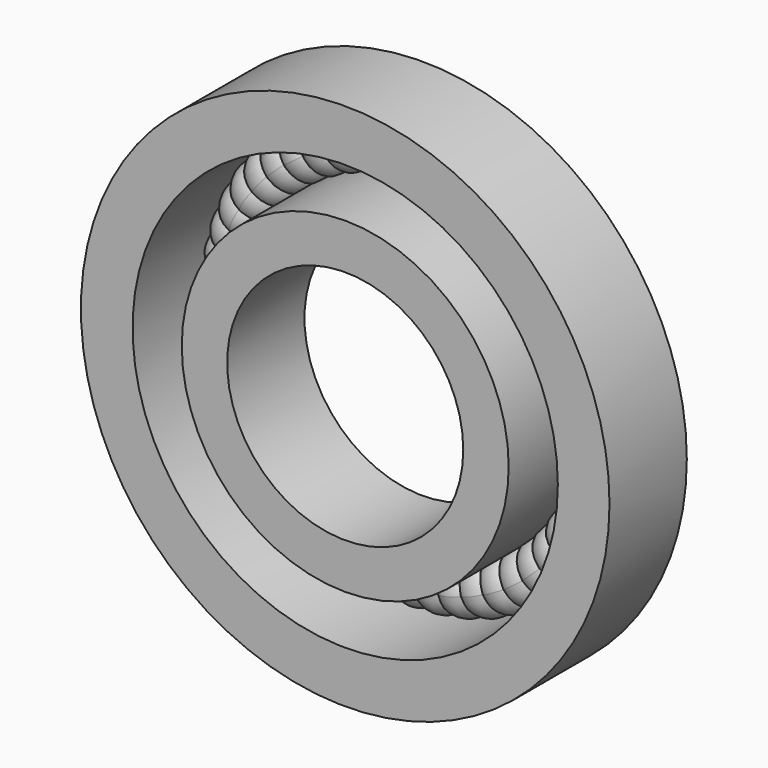
from build123d import *

# Parameters (mm, degrees)
F0_R     = 22.42843
F0_R_2   = 18.044227
F0_R_3   = 13.872573
F0_R_4   = 10.017031
F1_DEPTH = 8.2
F4_COUNT = 50


with BuildPart() as f1:
    # F0 (on Front) → F1 (new body)
    with BuildSketch(Plane.XZ):
        Circle(F0_R)
        Circle(F0_R_2, mode=Mode.SUBTRACT)
        Circle(F0_R_3)
        Circle(F0_R_4, mode=Mode.SUBTRACT)
    extrude(amount=F1_DEPTH)


with BuildPart() as f3:
    # F2 (on Front) → F3 (revolve)
    with BuildSketch(Plane.XZ):
        with BuildLine():
            ThreePointArc((2.289144, 15.860787), (1.618669, 17.479456), (0, 18.14993))
            Line((0, 18.14993), (0, 13.571643))
            ThreePointArc((0, 13.571643), (1.618669, 14.242118), (2.289144, 15.860787))
        make_face()
    revolve(axis=Axis((0, 0, 4.922349), (0, 0, -1)))


with BuildPart() as f4_1:
    # F4: instance of F3
    add(f3.part.rotate(Axis((0, 0, 0), (0, -1, 0)), 1 * 360 / F4_COUNT))


with BuildPart() as f4_2:
    # F4: instance of F3
    add(f3.part.rotate(Axis((0, 0, 0), (0, -1, 0)), 2 * 360 / F4_COUNT))


with BuildPart() as f4_3:
    # F4: instance of F3
    add(f3.part.rotate(Axis((0, 0, 0), (0, -1, 0)), 3 * 360 / F4_COUNT))


with BuildPart() as f4_4:
    # F4: instance of F3
    add(f3.part.rotate(Axis((0, 0, 0), (0, -1, 0)), 4 * 360 / F4_COUNT))


with BuildPart() as f4_5:
    # F4: instance of F3
    add(f3.part.rotate(Axis((0, 0, 0), (0, -1, 0)), 5 * 360 / F4_COUNT))


with BuildPart() as f4_6:
    # F4: instance of F3
    add(f3.part.rotate(Axis((0, 0, 0), (0, -1, 0)), 6 * 360 / F4_COUNT))


with BuildPart() as f4_7:
    # F4: instance of F3
    add(f3.part.rotate(Axis((0, 0, 0), (0, -1, 0)), 7 * 360 / F4_COUNT))


with BuildPart() as f4_8:
    # F4: instance of F3
    add(f3.part.rotate(Axis((0, 0, 0), (0, -1, 0)), 8 * 360 / F4_COUNT))


with BuildPart() as f4_9:
    # F4: instance of F3
    add(f3.part.rotate(Axis((0, 0, 0), (0, -1, 0)), 9 * 360 / F4_COUNT))


with BuildPart() as f4_10:
    # F4: instance of F3
    add(f3.part.rotate(Axis((0, 0, 0), (0, -1, 0)), 10 * 360 / F4_COUNT))


with BuildPart() as f4_11:
    # F4: instance of F3
    add(f3.part.rotate(Axis((0, 0, 0), (0, -1, 0)), 11 * 360 / F4_COUNT))


with BuildPart() as f4_12:
    # F4: instance of F3
    add(f3.part.rotate(Axis((0, 0, 0), (0, -1, 0)), 12 * 360 / F4_COUNT))


with BuildPart() as f4_13:
    # F4: instance of F3
    add(f3.part.rotate(Axis((0, 0, 0), (0, -1, 0)), 13 * 360 / F4_COUNT))


with BuildPart() as f4_14:
    # F4: instance of F3
    add(f3.part.rotate(Axis((0, 0, 0), (0, -1, 0)), 14 * 360 / F4_COUNT))


with BuildPart() as f4_15:
    # F4: instance of F3
    add(f3.part.rotate(Axis((0, 0, 0), (0, -1, 0)), 15 * 360 / F4_COUNT))


with BuildPart() as f4_16:
    # F4: instance of F3
    add(f3.part.rotate(Axis((0, 0, 0), (0, -1, 0)), 16 * 360 / F4_COUNT))


with BuildPart() as f4_17:
    # F4: instance of F3
    add(f3.part.rotate(Axis((0, 0, 0), (0, -1, 0)), 17 * 360 / F4_COUNT))


with BuildPart() as f4_18:
    # F4: instance of F3
    add(f3.part.rotate(Axis((0, 0, 0), (0, -1, 0)), 18 * 360 / F4_COUNT))


with BuildPart() as f4_19:
    # F4: instance of F3
    add(f3.part.rotate(Axis((0, 0, 0), (0, -1, 0)), 19 * 360 / F4_COUNT))


with BuildPart() as f4_20:
    # F4: instance of F3
    add(f3.part.rotate(Axis((0, 0, 0), (0, -1, 0)), 20 * 360 / F4_COUNT))


with BuildPart() as f4_21:
    # F4: instance of F3
    add(f3.part.rotate(Axis((0, 0, 0), (0, -1, 0)), 21 * 360 / F4_COUNT))


with BuildPart() as f4_22:
    # F4: instance of F3
    add(f3.part.rotate(Axis((0, 0, 0), (0, -1, 0)), 22 * 360 / F4_COUNT))


with BuildPart() as f4_23:
    # F4: instance of F3
    add(f3.part.rotate(Axis((0, 0, 0), (0, -1, 0)), 23 * 360 / F4_COUNT))


with BuildPart() as f4_24:
    # F4: instance of F3
    add(f3.part.rotate(Axis((0, 0, 0), (0, -1, 0)), 24 * 360 / F4_COUNT))


with BuildPart() as f4_25:
    # F4: instance of F3
    add(f3.part.rotate(Axis((0, 0, 0), (0, -1, 0)), 25 * 360 / F4_COUNT))


with BuildPart() as f4_26:
    # F4: instance of F3
    add(f3.part.rotate(Axis((0, 0, 0), (0, -1, 0)), 26 * 360 / F4_COUNT))


with BuildPart() as f4_27:
    # F4: instance of F3
    add(f3.part.rotate(Axis((0, 0, 0), (0, -1, 0)), 27 * 360 / F4_COUNT))


with BuildPart() as f4_28:
    # F4: instance of F3
    add(f3.part.rotate(Axis((0, 0, 0), (0, -1, 0)), 28 * 360 / F4_COUNT))


with BuildPart() as f4_29:
    # F4: instance of F3
    add(f3.part.rotate(Axis((0, 0, 0), (0, -1, 0)), 29 * 360 / F4_COUNT))


with BuildPart() as f4_30:
    # F4: instance of F3
    add(f3.part.rotate(Axis((0, 0, 0), (0, -1, 0)), 30 * 360 / F4_COUNT))


with BuildPart() as f4_31:
    # F4: instance of F3
    add(f3.part.rotate(Axis((0, 0, 0), (0, -1, 0)), 31 * 360 / F4_COUNT))


with BuildPart() as f4_32:
    # F4: instance of F3
    add(f3.part.rotate(Axis((0, 0, 0), (0, -1, 0)), 32 * 360 / F4_COUNT))


with BuildPart() as f4_33:
    # F4: instance of F3
    add(f3.part.rotate(Axis((0, 0, 0), (0, -1, 0)), 33 * 360 / F4_COUNT))


with BuildPart() as f4_34:
    # F4: instance of F3
    add(f3.part.rotate(Axis((0, 0, 0), (0, -1, 0)), 34 * 360 / F4_COUNT))


with BuildPart() as f4_35:
    # F4: instance of F3
    add(f3.part.rotate(Axis((0, 0, 0), (0, -1, 0)), 35 * 360 / F4_COUNT))


with BuildPart() as f4_36:
    # F4: instance of F3
    add(f3.part.rotate(Axis((0, 0, 0), (0, -1, 0)), 36 * 360 / F4_COUNT))


with BuildPart() as f4_37:
    # F4: instance of F3
    add(f3.part.rotate(Axis((0, 0, 0), (0, -1, 0)), 37 * 360 / F4_COUNT))


with BuildPart() as f4_38:
    # F4: instance of F3
    add(f3.part.rotate(Axis((0, 0, 0), (0, -1, 0)), 38 * 360 / F4_COUNT))


with BuildPart() as f4_39:
    # F4: instance of F3
    add(f3.part.rotate(Axis((0, 0, 0), (0, -1, 0)), 39 * 360 / F4_COUNT))


with BuildPart() as f4_40:
    # F4: instance of F3
    add(f3.part.rotate(Axis((0, 0, 0), (0, -1, 0)), 40 * 360 / F4_COUNT))


with BuildPart() as f4_41:
    # F4: instance of F3
    add(f3.part.rotate(Axis((0, 0, 0), (0, -1, 0)), 41 * 360 / F4_COUNT))


with BuildPart() as f4_42:
    # F4: instance of F3
    add(f3.part.rotate(Axis((0, 0, 0), (0, -1, 0)), 42 * 360 / F4_COUNT))


with BuildPart() as f4_43:
    # F4: instance of F3
    add(f3.part.rotate(Axis((0, 0, 0), (0, -1, 0)), 43 * 360 / F4_COUNT))


with BuildPart() as f4_44:
    # F4: instance of F3
    add(f3.part.rotate(Axis((0, 0, 0), (0, -1, 0)), 44 * 360 / F4_COUNT))


with BuildPart() as f4_45:
    # F4: instance of F3
    add(f3.part.rotate(Axis((0, 0, 0), (0, -1, 0)), 45 * 360 / F4_COUNT))


with BuildPart() as f4_46:
    # F4: instance of F3
    add(f3.part.rotate(Axis((0, 0, 0), (0, -1, 0)), 46 * 360 / F4_COUNT))


with BuildPart() as f4_47:
    # F4: instance of F3
    add(f3.part.rotate(Axis((0, 0, 0), (0, -1, 0)), 47 * 360 / F4_COUNT))


with BuildPart() as f4_48:
    # F4: instance of F3
    add(f3.part.rotate(Axis((0, 0, 0), (0, -1, 0)), 48 * 360 / F4_COUNT))


with BuildPart() as f4_49:
    # F4: instance of F3
    add(f3.part.rotate(Axis((0, 0, 0), (0, -1, 0)), 49 * 360 / F4_COUNT))


solid = Compound([f1.part, f3.part, f4_1.part, f4_2.part, f4_3.part, f4_4.part, f4_5.part, f4_6.part, f4_7.part, f4_8.part, f4_9.part, f4_10.part, f4_11.part, f4_12.part, f4_13.part, f4_14.part, f4_15.part, f4_16.part, f4_17.part, f4_18.part, f4_19.part, f4_20.part, f4_21.part, f4_22.part, f4_23.part, f4_24.part, f4_25.part, f4_26.part, f4_27.part, f4_28.part, f4_29.part, f4_30.part, f4_31.part, f4_32.part, f4_33.part, f4_34.part, f4_35.part, f4_36.part, f4_37.part, f4_38.part, f4_39.part, f4_40.part, f4_41.part, f4_42.part, f4_43.part, f4_44.part, f4_45.part, f4_46.part, f4_47.part, f4_48.part, f4_49.part])
